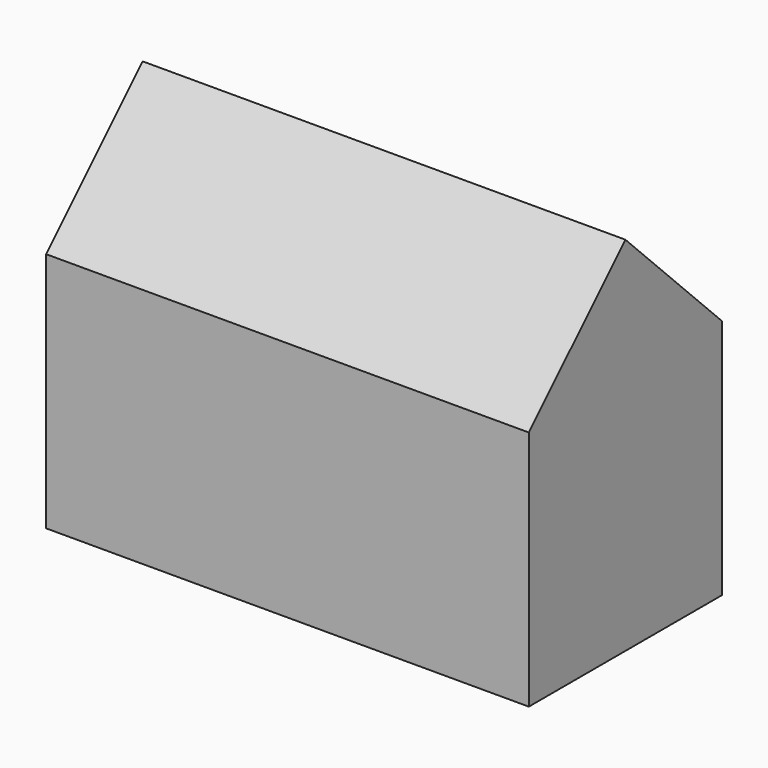
from build123d import *

# Parameters (mm, degrees)
BOX001_W               = 20
BOX001_H               = 7.071068
BOX001_DEPTH           = 7.071068
BOX001_PLACEMENT_ANGLE = 45
BOX_W                  = 20
BOX_H                  = 10
BOX_DEPTH              = 10


with BuildPart() as cube001:
    # Box001 → Box001 (new body)
    with BuildSketch(Plane.XY):
        with Locations((10, 3.535534)):
            Rectangle(BOX001_W, BOX001_H)
    extrude(amount=BOX001_DEPTH)


with BuildPart() as cube001_1:
    # Box001 placement: moved
    add(cube001.part.moved(Location((0, 5, 5))).rotate(Axis((0, 5, 5), (1, 0, 0)), BOX001_PLACEMENT_ANGLE))


with BuildPart() as fusion:
    # Box → Box (new body)
    with BuildSketch(Plane.XY):
        with Locations((10, 5)):
            Rectangle(BOX_W, BOX_H)
    extrude(amount=BOX_DEPTH)

    # Fusion: union Cube001
    add(cube001_1.part)


solid = fusion.part
